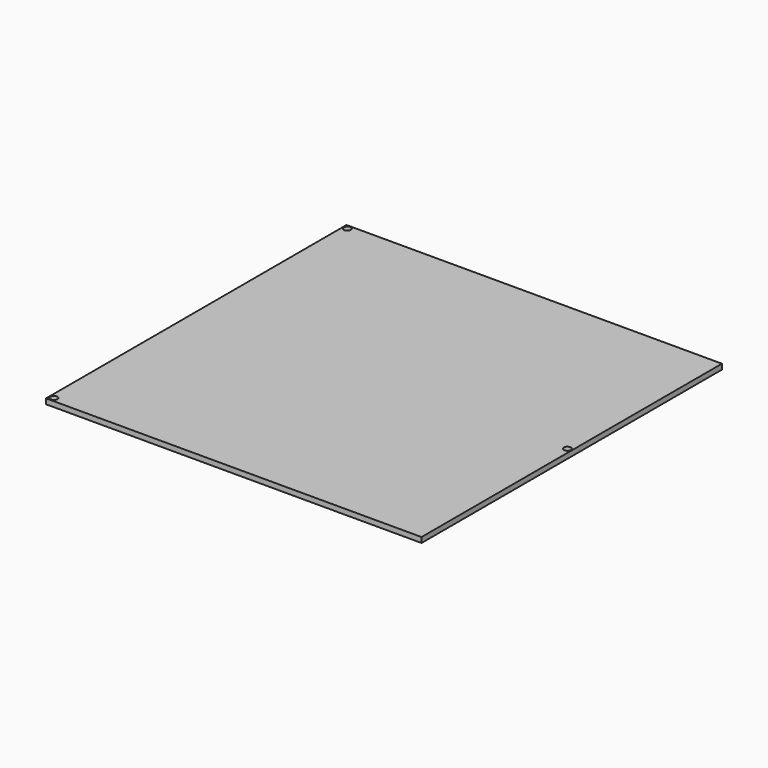
from build123d import *

# Parameters (mm, degrees)
F0_W     = 214
F0_H     = 214
F1_DEPTH = 3
F2_R     = 2
F3_DEPTH = 3.001


with BuildPart() as f1:
    # F0 (on Top) → F1 (new body)
    with BuildSketch(Plane.XY):
        Rectangle(F0_W, F0_H)
    extrude(amount=F1_DEPTH)

    # F2 (on face) → F3 (cut, through all)
    with BuildSketch(Plane(origin=(0, 0, 0), x_dir=(1, 0, 0), z_dir=(0, 0, -1))):
        with Locations((-104.5, -104.5)):
            Circle(F2_R)
        with Locations((-104.5, 104.5)):
            Circle(F2_R)
        with Locations((104.5, 0)):
            Circle(F2_R)
    extrude(amount=-F3_DEPTH, mode=Mode.SUBTRACT)


solid = f1.part
